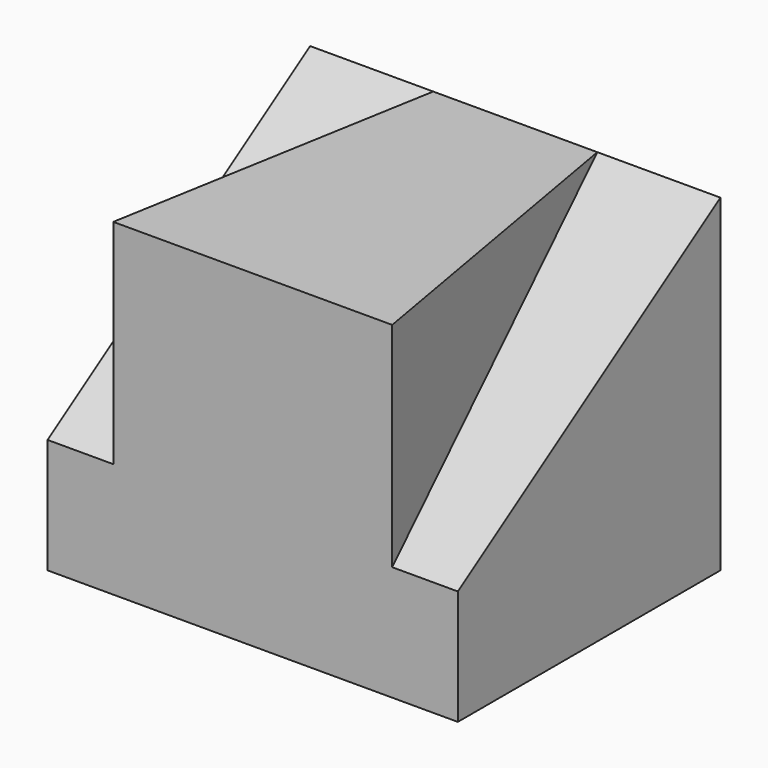
from build123d import *

# Parameters (mm, degrees)
F1_DEPTH = 50
F3_DEPTH = 40


with BuildPart() as f1:
    # F0 (on Right) → F1 (new body)
    with BuildSketch(Plane.YZ):
        Polygon((0, 14), (0, 0), (40, 0), (40, 40), align=None)
    extrude(amount=F1_DEPTH)

    # F2 (on face) → F3 (join)
    with BuildSketch(Plane(origin=(0, 0, 0), x_dir=(1, 0, 0), z_dir=(0, 0, -1))):
        Polygon((42, 0), (8, 0), (15, -40), (35, -40), align=None)
    extrude(amount=-F3_DEPTH)


solid = f1.part
